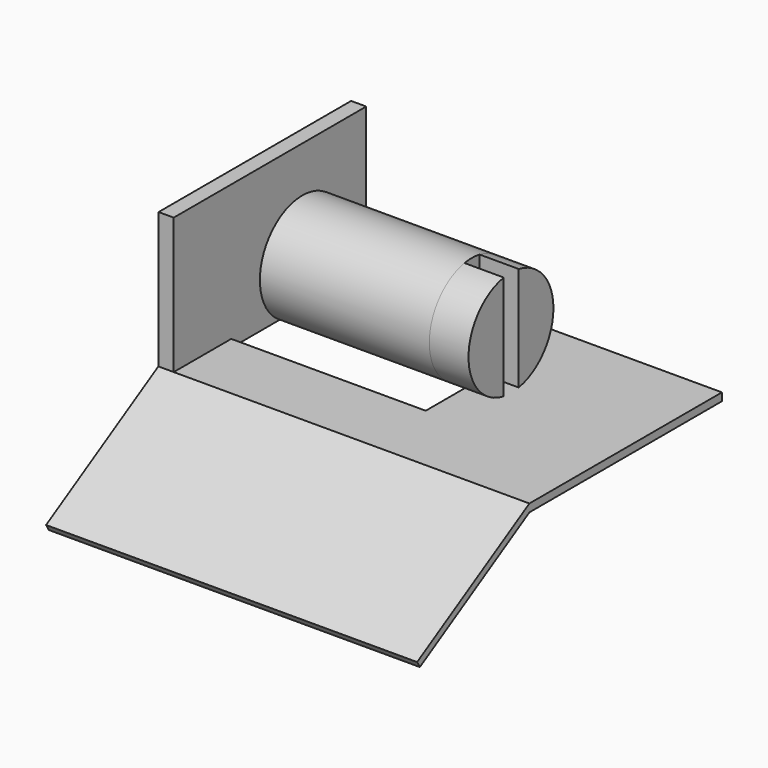
from build123d import *

# Parameters (mm, degrees)
F1_DEPTH  = 3
F2_DEPTH  = 55
F3_R      = 3.4654158046
F4_DEPTH  = 10
F6_DEPTH  = 141.9
F7_R      = 20.2920771374
F7_R_2    = 3.4654158046
F8_DEPTH  = 64.8
F10_DEPTH = 15


with BuildPart() as f1:
    # F0 (on Top) → F1 (new body)
    with BuildSketch(Plane.XY):
        Polygon((-34.8740294576, 39.3599048257), (-34.8740294576, 15.3387868777), (39.5046062768, 15.3387868777), (39.5046062768, -25.1787584275), (-34.8740294576, -25.1787584275), (-34.8740294576, -52.6728071272), (101.1491641402, -52.6728071272), (101.1491641402, 39.3599048257), align=None)
    extrude(amount=F1_DEPTH)

    # F0 (on Top) → F2 (join)
    with BuildSketch(Plane.XY):
        Polygon((-34.8740294576, -25.1787584275), (-34.8740294576, 15.3387868777), (-34.8740294576, 39.3599048257), (-40.6622514129, 39.3599048257), (-40.6622514129, -52.6728071272), (-34.8740294576, -52.6728071272), align=None)
    extrude(amount=F2_DEPTH)

    # F3 (on face) → F4 (join)
    with BuildSketch(Plane.YZ.offset(-34.8740294576)):
        with Locations((-3.7031148095, 25.5424808711)):
            Circle(F3_R)
    extrude(amount=F4_DEPTH)

    # F5 (on face) → F6 (join)
    with BuildSketch(Plane.YZ.offset(101.1491641402)):
        Polygon((-105.0309970103, -30.803521334), (-52.6728071272, 0), (-52.6728071272, 3), (-106.342145831, -28.5749001911), align=None)
    extrude(amount=-F6_DEPTH)


with BuildPart() as f8:
    # F7 (on face) → F8 (new body)
    with BuildSketch(Plane.YZ.offset(-24.8740294576)):
        with Locations((-3.7031148095, 25.5424808711)):
            Circle(F7_R)
        with Locations((-3.7031148095, 25.5424808711)):
            Circle(F7_R_2, mode=Mode.SUBTRACT)
        with Locations((-3.7031148095, 25.5424808711)):
            Circle(F7_R_2)
    extrude(amount=F8_DEPTH)

    # F9 (on face) → F10 (join)
    with BuildSketch(Plane.YZ.offset(39.9259705424)):
        with BuildLine():
            Line((-7.1687726304, 5.5485415289), (-7.1687726304, 45.5364202133))
            ThreePointArc((-7.1687726304, 45.5364202133), (-23.9951919469, 25.5424808711), (-7.1687726304, 5.5485415289))
        make_face()
        with BuildLine():
            ThreePointArc((16.5889623279, 25.5424808711), (11.8999663913, 38.5160020428), (0, 45.4938050191))
            Line((0, 45.4938050191), (0, 5.5911567231))
            ThreePointArc((0, 5.5911567231), (11.8999663913, 12.5689596993), (16.5889623279, 25.5424808711))
        make_face()
    extrude(amount=F10_DEPTH)


solid = Compound([f1.part, f8.part])
